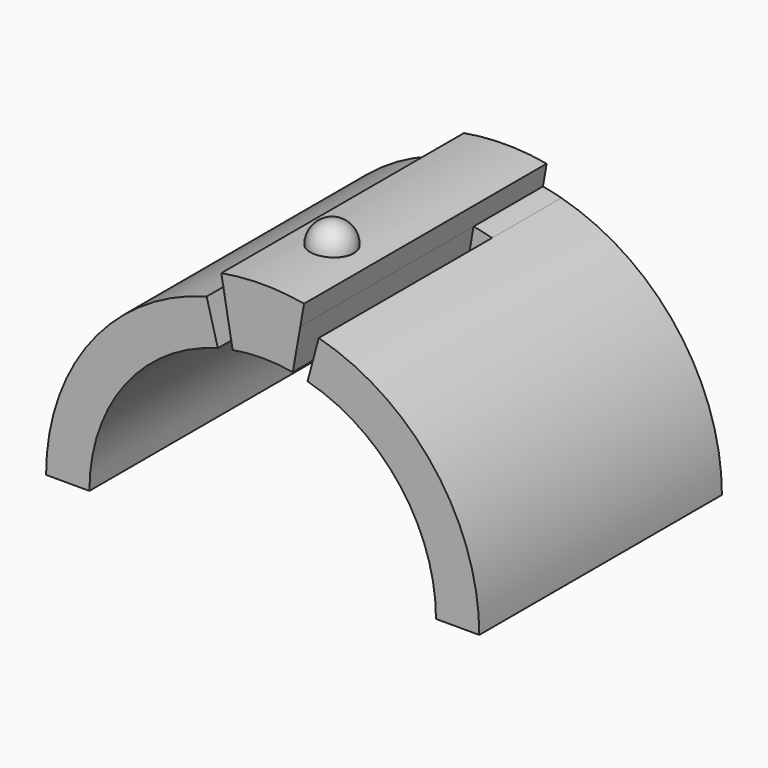
from build123d import *

# Parameters (mm, degrees)
F1_DEPTH      = 2
F2_DEPTH      = 5
F2_DEPTH_BACK = 2
F3_DEPTH      = 5


with BuildPart() as f1:
    # F0 (on Front) → F1 (new body)
    with BuildSketch(Plane.XZ):
        with BuildLine():
            Line((4, 0), (5, 0))
            ThreePointArc((5, 0), (3.9667667015, 3.043807145), (1.2940952255, 4.8296291314))
            Line((1.2940952255, 4.8296291314), (1.0352761804, 3.8637033052))
            ThreePointArc((1.0352761804, 3.8637033052), (3.1734133612, 2.435045716), (4, 0))
        make_face()
        with BuildLine():
            Line((1.0352761804, 3.8637033052), (1.2940952255, 4.8296291314))
            ThreePointArc((1.2940952255, 4.8296291314), (1.0821980697, 4.8814800356), (0.8682408883, 4.9240387651))
            Line((0.8682408883, 4.9240387651), (0.6945927107, 3.939231012))
            ThreePointArc((0.6945927107, 3.939231012), (0.8657584558, 3.9051840285), (1.0352761804, 3.8637033052))
        make_face()
        with BuildLine():
            Line((0.6945927107, 3.939231012), (0.8682408883, 4.9240387651))
            ThreePointArc((0.8682408883, 4.9240387651), (0, 5), (-0.8682408883, 4.9240387651))
            Line((-0.8682408883, 4.9240387651), (-0.6945927107, 3.939231012))
            ThreePointArc((-0.6945927107, 3.939231012), (0, 4), (0.6945927107, 3.939231012))
        make_face()
        with BuildLine():
            ThreePointArc((-0.8682408883, 4.9240387651), (-1.0821980697, 4.8814800356), (-1.2940952255, 4.8296291314))
            Line((-1.2940952255, 4.8296291314), (-1.0352761804, 3.8637033052))
            ThreePointArc((-1.0352761804, 3.8637033052), (-0.8657584558, 3.9051840285), (-0.6945927107, 3.939231012))
            Line((-0.6945927107, 3.939231012), (-0.8682408883, 4.9240387651))
        make_face()
        with BuildLine():
            ThreePointArc((-1.2940952255, 4.8296291314), (-3.9667667015, 3.043807145), (-5, 0))
            Line((-5, 0), (-4, 0))
            ThreePointArc((-4, 0), (-3.1734133612, 2.435045716), (-1.0352761804, 3.8637033052))
            Line((-1.0352761804, 3.8637033052), (-1.2940952255, 4.8296291314))
        make_face()
    extrude(amount=-F1_DEPTH)

    # F0 (on Front) → F2 (join, two sides)
    with BuildSketch(Plane.XZ) as f2_sk:
        with BuildLine():
            Line((0.6945927107, 3.939231012), (0.8682408883, 4.9240387651))
            ThreePointArc((0.8682408883, 4.9240387651), (0, 5), (-0.8682408883, 4.9240387651))
            Line((-0.8682408883, 4.9240387651), (-0.6945927107, 3.939231012))
            ThreePointArc((-0.6945927107, 3.939231012), (0, 4), (0.6945927107, 3.939231012))
        make_face()
        with BuildLine():
            ThreePointArc((-0.8682408883, 4.9240387651), (0, 5), (0.8682408883, 4.9240387651))
            Line((0.8682408883, 4.9240387651), (0.9550649772, 5.4164426416))
            ThreePointArc((0.9550649772, 5.4164426416), (0, 5.5), (-0.9550649772, 5.4164426416))
            Line((-0.9550649772, 5.4164426416), (-0.8682408883, 4.9240387651))
        make_face()
    extrude(amount=F2_DEPTH)
    extrude(f2_sk.sketch, amount=-F2_DEPTH_BACK)

    # F0 (on Front) → F3 (join)
    with BuildSketch(Plane.XZ):
        with BuildLine():
            Line((4, 0), (5, 0))
            ThreePointArc((5, 0), (3.9667667015, 3.043807145), (1.2940952255, 4.8296291314))
            Line((1.2940952255, 4.8296291314), (1.0352761804, 3.8637033052))
            ThreePointArc((1.0352761804, 3.8637033052), (3.1734133612, 2.435045716), (4, 0))
        make_face()
        with BuildLine():
            ThreePointArc((-1.2940952255, 4.8296291314), (-3.9667667015, 3.043807145), (-5, 0))
            Line((-5, 0), (-4, 0))
            ThreePointArc((-4, 0), (-3.1734133612, 2.435045716), (-1.0352761804, 3.8637033052))
            Line((-1.0352761804, 3.8637033052), (-1.2940952255, 4.8296291314))
        make_face()
    extrude(amount=F3_DEPTH)

    # F5 (on offset) → F6 (revolve)
    with BuildSketch(Plane.XZ.offset(3)):
        with BuildLine():
            Line((0, 6), (0, 5))
            ThreePointArc((0, 5), (0.3535533906, 5.1464466094), (0.5, 5.5))
            ThreePointArc((0.5, 5.5), (0.3535533906, 5.8535533906), (0, 6))
        make_face()
    revolve(axis=Axis((0, -3, 4.2273908738), (0, 0, 1)))


solid = f1.part
